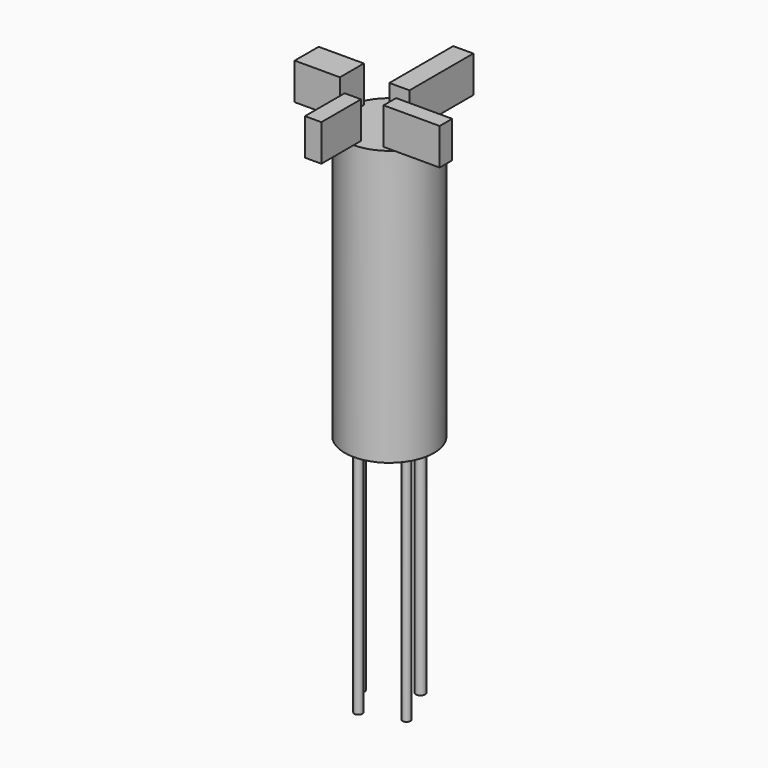
from build123d import *

# Parameters (mm, degrees)
F0_R     = 30.467504
F1_DEPTH = 187.6
F2_W     = 13.727636
F2_H     = 54.504935
F2_W_2   = 30.864643
F2_H_2   = 20.4884
F2_W_3   = 38.292515
F2_H_3   = 10.689599
F2_W_4   = 11.208073
F2_H_4   = 33.850385
F3_DEPTH = 25
F4_R     = 2.716617
F4_R_2   = 2.765864
F4_R_3   = 3.189043
F4_R_4   = 3.014963
F5_DEPTH = 159


with BuildPart() as f1:
    # F0 (on Top) → F1 (new body)
    with BuildSketch(Plane.XY):
        Circle(F0_R)
    extrude(amount=-F1_DEPTH)

    # F2 (on Top) → F3 (join)
    with BuildSketch(Plane.XY):
        with Locations((6.863818, 27.252467)):
            Rectangle(F2_W, F2_H)
        with Locations((-40.128017, -1.170069)):
            Rectangle(F2_W_2, F2_H_2)
        with Locations((32.873894, -16.759068)):
            Rectangle(F2_W_3, F2_H_3)
        with Locations((-5.604036, -41.142927)):
            Rectangle(F2_W_4, F2_H_4)
    extrude(amount=F3_DEPTH)

    # F4 (on face) → F5 (join)
    with BuildSketch(Plane(origin=(0, 0, -187.6), x_dir=(1, 0, 0), z_dir=(0, 0, -1))):
        with Locations((-4.650002, 20.7)):
            Circle(F4_R)
        with Locations((20.55, 11.100001)):
            Circle(F4_R_2)
        with Locations((7.050002, -17.7)):
            Circle(F4_R_3)
        with Locations((-19.950002, 0)):
            Circle(F4_R_4)
    extrude(amount=F5_DEPTH)


solid = f1.part
